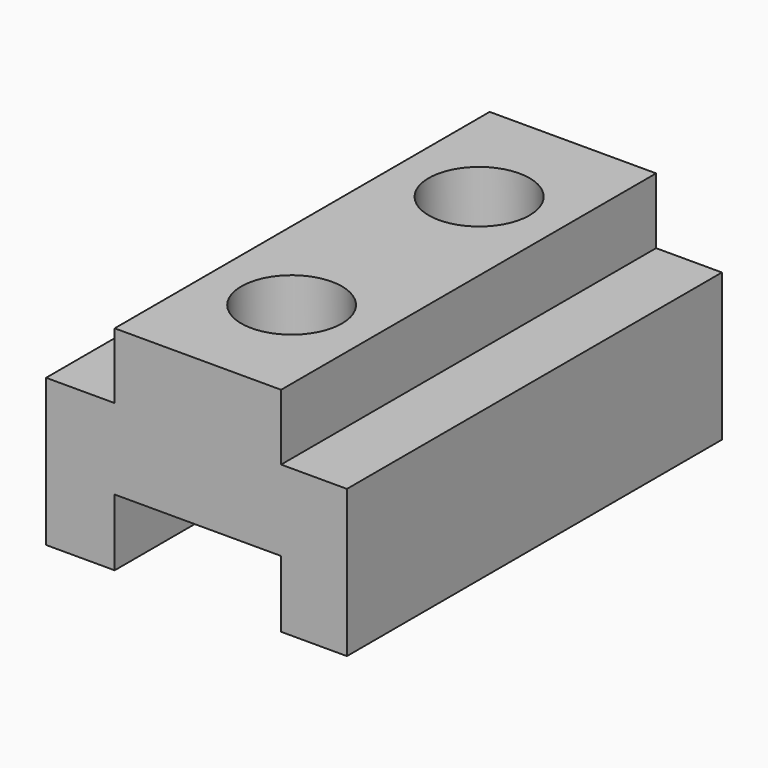
from build123d import *

# Parameters (mm, degrees)
F1_DEPTH = 72.6
F2_R     = 7.811886
F2_R_2   = 7.792349
F3_DEPTH = 25


with BuildPart() as f1:
    # F0 (on Front) → F1 (new body)
    with BuildSketch(Plane.XZ):
        Polygon((0, 22.803508), (0, 0), (10.622752, 0), (10.622752, 10.339479), (36.400631, 10.339479), (36.400631, 0), (46.598472, 0), (46.598472, 22.803508), (36.400631, 22.803508), (36.400631, 33.001352), (10.622752, 33.001352), (10.622752, 22.803508), align=None)
    extrude(amount=F1_DEPTH)

    # F2 (on face) → F3 (cut)
    with BuildSketch(Plane.XY.offset(33.001352)):
        with Locations((23.511691, -18.15)):
            Circle(F2_R)
        with Locations((23.511691, -54.45)):
            Circle(F2_R_2)
    extrude(amount=-F3_DEPTH, mode=Mode.SUBTRACT)


solid = f1.part
